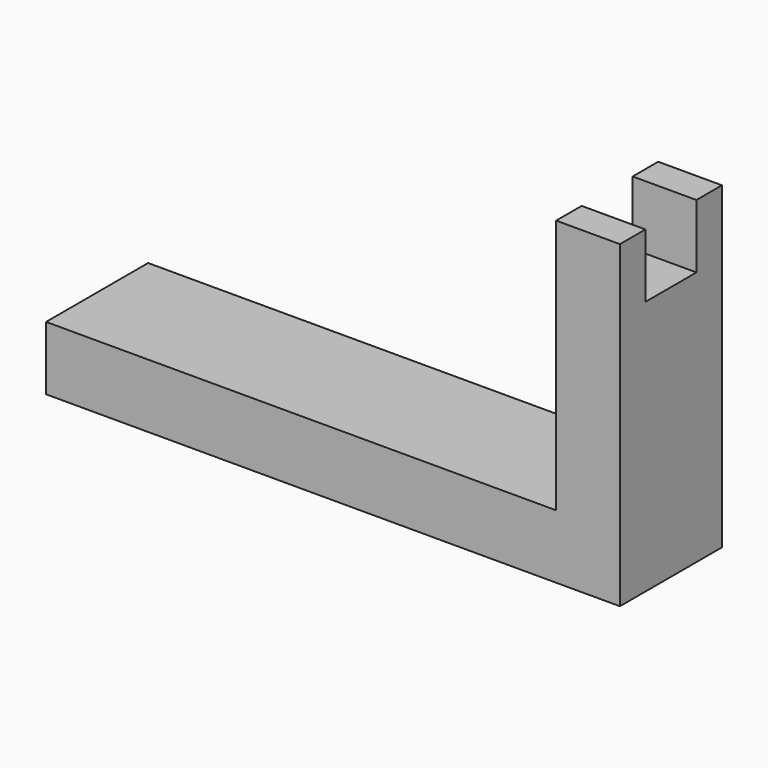
from build123d import *

# Parameters (mm, degrees)
BOX_W     = 20
BOX_H     = 10
BOX_DEPTH = 10
PAD_DEPTH = 20


with BuildPart() as cubo:
    # Box → Box (new body)
    with BuildSketch(Plane(origin=(76, 5, 40), x_dir=(1, 0, 0), z_dir=(0, 0, 1))):
        with Locations((10, 5)):
            Rectangle(BOX_W, BOX_H)
    extrude(amount=BOX_DEPTH)


with BuildPart() as obj1:
    # Sketch → Pad (new body)
    with BuildSketch(Plane.XZ):
        Polygon((0, 0), (90, 0), (90, 50), (80, 50), (80, 10), (0, 10), align=None)
    extrude(amount=PAD_DEPTH)


with BuildPart() as obj1_1:
    # Body placement: moved
    add(obj1.part.moved(Location((0, 20, 0))))

    # Cut002: cut Cubo
    add(cubo.part, mode=Mode.SUBTRACT)


solid = obj1_1.part
